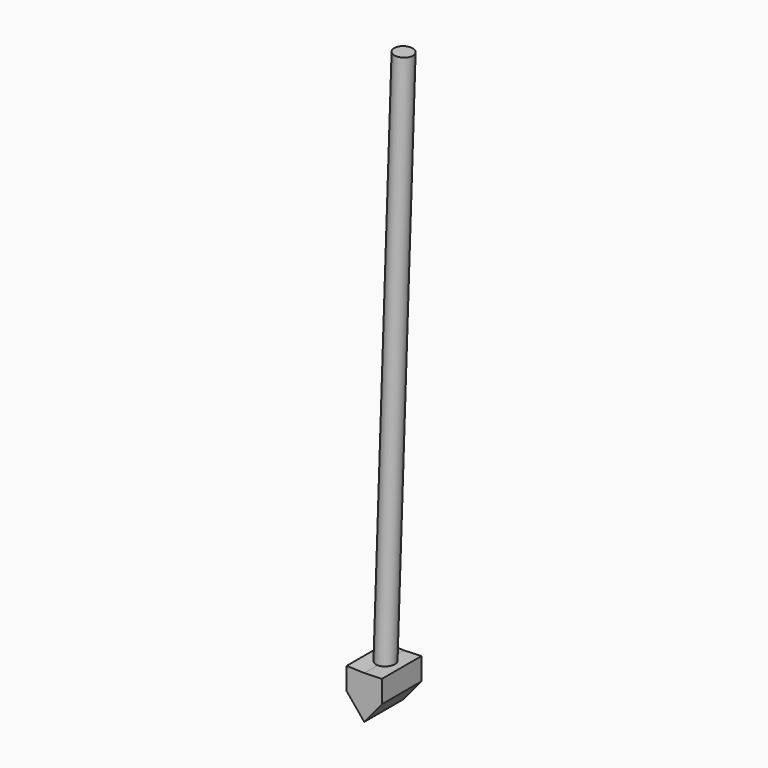
from build123d import *

# Parameters (mm, degrees)
F1_DEPTH = 76.2
F2_R     = 14.516213
F3_DEPTH = 838.2


with BuildPart() as f1:
    # F0 (on Front) → F1 (new body)
    with BuildSketch(Plane.XZ):
        Polygon((0, 66.490166), (0, 0), (27.231932, 32.945991), (27.231932, 67.398995), align=None)
        Polygon((-27.231932, 32.945991), (0, 0), (0, 66.490166), (-27.231932, 67.398995), align=None)
    extrude(amount=F1_DEPTH)

    # F2 (on face) → F3 (join)
    with BuildSketch(Plane(origin=(2.216551, 0, 66.416191), x_dir=(0.999444, 0, -0.033355), z_dir=(0.033355, 0, 0.999444))):
        with Locations((-1.577918, -35.97346)):
            Circle(F2_R)
    extrude(amount=F3_DEPTH)


solid = f1.part
